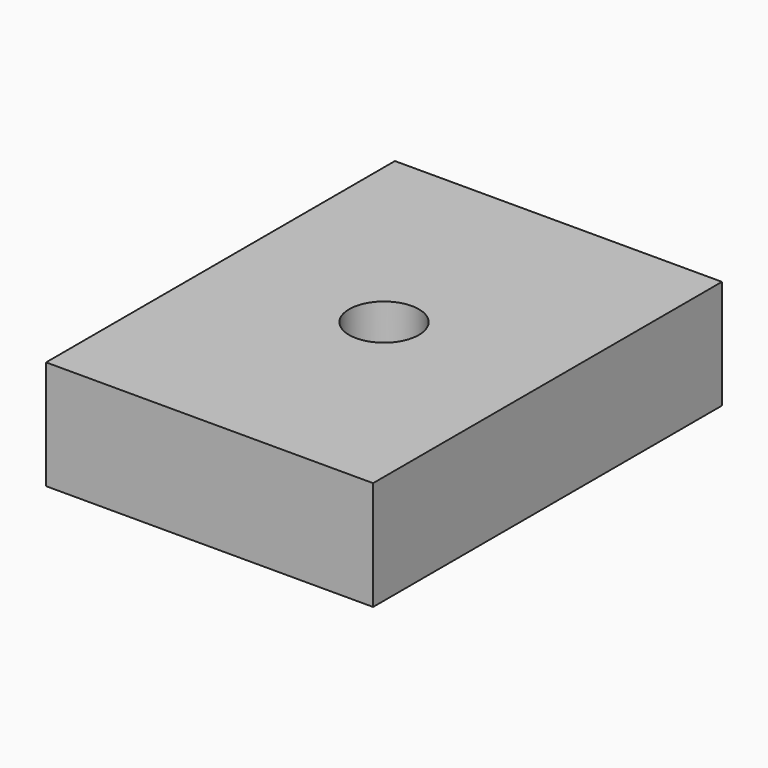
from build123d import *

# Parameters (mm, degrees)
F1_DEPTH = 5


with BuildPart() as f1:
    # F0 (on Top) → F1 (new body)
    with BuildSketch(Plane.XY):
        with BuildLine():
            Line((0, 10), (0, 0))
            Line((0, 0), (15, 0))
            Line((15, 0), (15, 10))
            Line((15, 10), (9.1, 10))
            ThreePointArc((9.1, 10), (7.5, 8.4), (5.9, 10))
            Line((5.9, 10), (0, 10))
        make_face()
        with BuildLine():
            Line((0, 20), (0, 10))
            Line((0, 10), (5.9, 10))
            ThreePointArc((5.9, 10), (7.5, 11.6), (9.1, 10))
            Line((9.1, 10), (15, 10))
            Line((15, 10), (15, 20))
            Line((15, 20), (0, 20))
        make_face()
    extrude(amount=F1_DEPTH)


solid = f1.part
